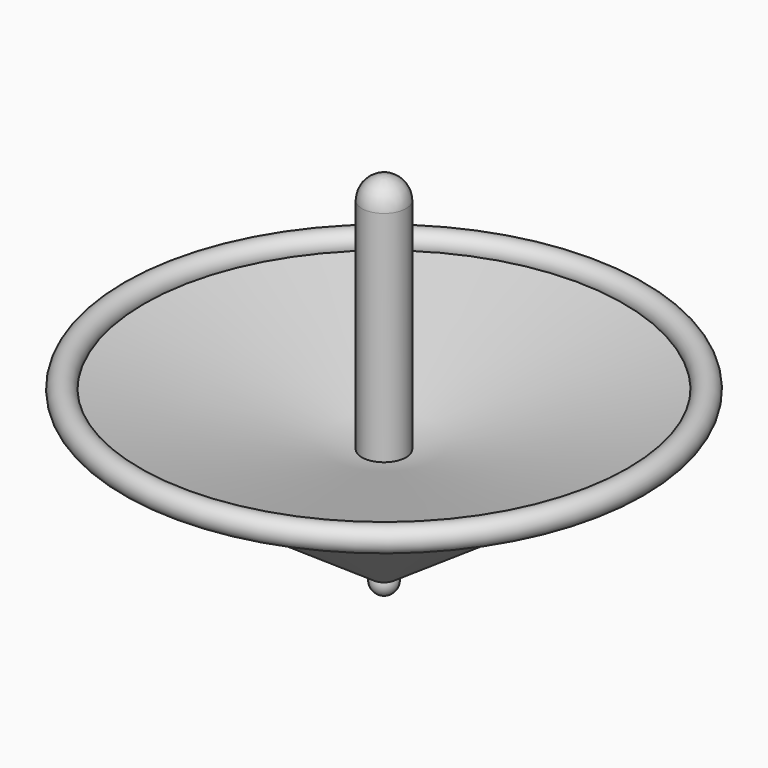
from build123d import *

# Parameters (mm, degrees)
F6_R = 1.712756


with BuildPart() as f1:
    # F0 (on Front) → F1 (revolve)
    with BuildSketch(Plane.XZ):
        Polygon((-35.240546, 0), (0, -24.068717), (0, -8.132434), align=None)
    revolve(axis=Axis((0, 0, -16.100575), (0, 0, -1)))

    # F4 (on Front) → F5 (revolve)
    with BuildSketch(Plane.XZ):
        with BuildLine():
            Line((0, -25.238145), (0, -21.761551))
            ThreePointArc((0, -21.761551), (-1.738297, -23.499848), (0, -25.238145))
        make_face()
    revolve(axis=Axis((0, 0, -23.499848), (0, 0, 1)))


with BuildPart() as f3:
    # F2 (on Front) → F3 (revolve)
    with BuildSketch(Plane.XZ):
        with BuildLine():
            Line((-3.08859, -14.229668), (0, -14.229668))
            Line((0, -14.229668), (0, 20.094648))
            ThreePointArc((0, 20.094648), (-2.183963, 20.999275), (-3.08859, 23.183238))
            Line((-3.08859, 23.183238), (-3.08859, -14.229668))
        make_face()
        with BuildLine():
            ThreePointArc((-3.08859, 23.183238), (-2.183963, 20.999275), (0, 20.094648))
            Line((0, 20.094648), (0, 23.183238))
            Line((0, 23.183238), (-3.08859, 23.183238))
        make_face()
        with BuildLine():
            ThreePointArc((0, 26.271828), (-2.183963, 25.367201), (-3.08859, 23.183238))
            Line((-3.08859, 23.183238), (0, 23.183238))
            Line((0, 23.183238), (0, 26.271828))
        make_face()
    revolve(axis=Axis((0, 0, 4.476785), (0, 0, 1)))


with BuildPart() as f7:
    # F6 (on Front) → F7 (revolve)
    with BuildSketch(Plane.XZ):
        with Locations((-35.157047, 0)):
            Circle(F6_R)
    revolve(axis=Axis((0, 0, 2.209123), (0, 0, 1)))


solid = Compound([f1.part, f3.part, f7.part])
